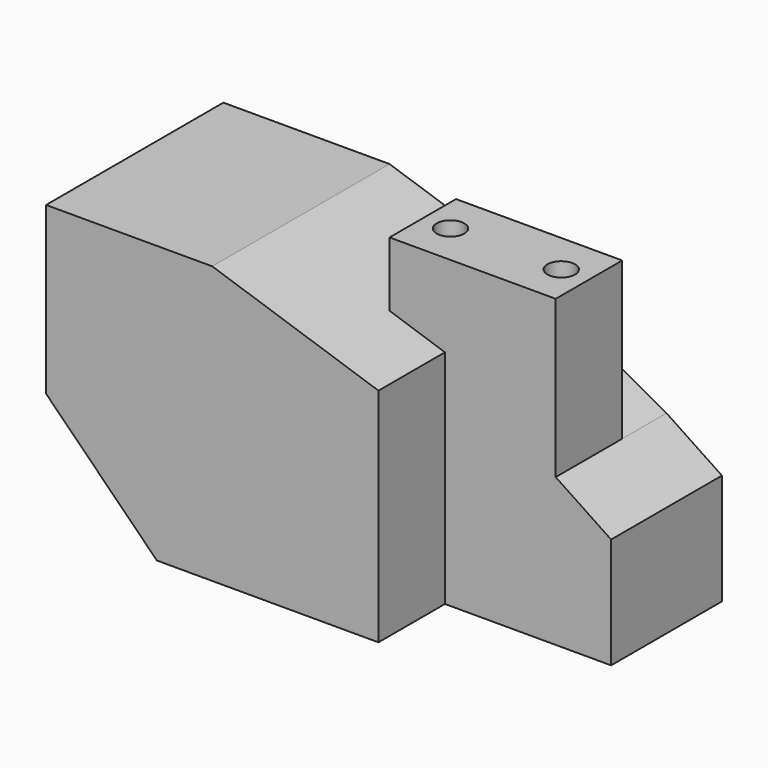
from build123d import *

# Parameters (mm, degrees)
F1_DEPTH = 50.8
F3_DEPTH = 31.75
F5_DEPTH = 31.75
F7_DEPTH = 12.7
F8_R     = 3.175
F9_DEPTH = 69.851


with BuildPart() as f1:
    # F0 (on Front) → F1 (new body)
    with BuildSketch(Plane.XZ):
        Polygon((0, 25.4), (25.4, 0), (76.2, 0), (76.2, 50.8), (38.1, 63.5), (0, 63.5), align=None)
    extrude(amount=F1_DEPTH)

    # F2 (on Front) → F3 (join)
    with BuildSketch(Plane.XZ):
        Polygon((63.5, 69.85), (63.5, 55.033333), (76.2, 50.8), (76.2, 31.75), (101.6, 31.75), (101.6, 69.85), align=None)
    extrude(amount=F3_DEPTH)

    # F4 (on Front) → F5 (join)
    with BuildSketch(Plane.XZ):
        Polygon((114.3, 25.4), (76.2, 50.8), (76.2, 0), (114.3, 0), align=None)
    extrude(amount=F5_DEPTH)

    # F6 (on face) → F7 (cut)
    with BuildSketch(Plane(origin=(0, 0, 0), x_dir=(-1, 0, 0), z_dir=(0, 1, 0))):
        Polygon((-101.6, 69.85), (-101.6, 33.866667), (-63.5, 55.033333), (-63.5, 69.85), align=None)
    extrude(amount=-F7_DEPTH, mode=Mode.SUBTRACT)

    # F8 (on face) → F9 (cut, through all)
    with BuildSketch(Plane.XY.offset(69.85)):
        with Locations((69.85, -22.225)):
            Circle(F8_R)
        with Locations((95.25, -22.225)):
            Circle(F8_R)
    extrude(amount=-F9_DEPTH, mode=Mode.SUBTRACT)


solid = f1.part
